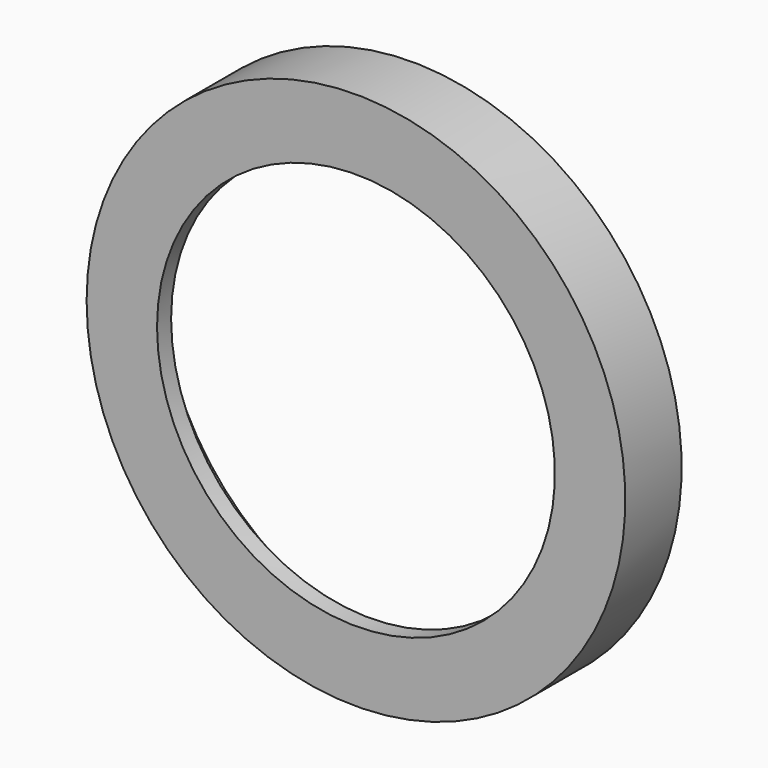
from build123d import *

# Parameters (mm, degrees)
F0_W = 1
F0_H = 3


with BuildPart() as f1:
    # F0 (on Top) → F1 (revolve)
    with BuildSketch(Plane.XY):
        with Locations((-14.8, 3.678861)):
            Rectangle(F0_W, F0_H)
        Polygon((-15.3, 1.178861), (-11.3, 1.178861), (-11.3, 2.178861), (-14.3, 2.178861), (-15.3, 2.178861), align=None)
    revolve(axis=Axis((0, 2.084704, 0), (0, -1, 0)))


solid = f1.part
